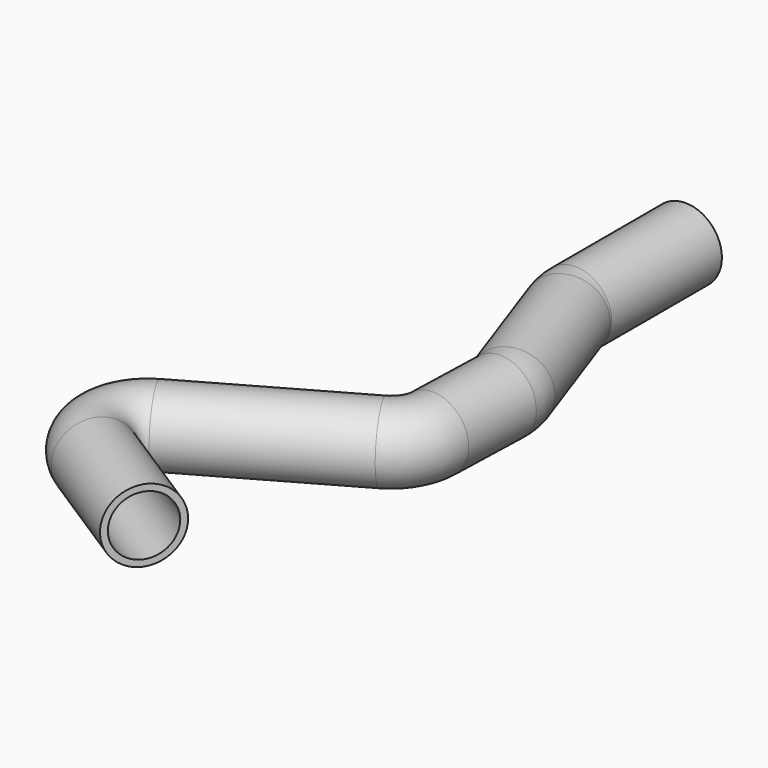
from build123d import *

# Parameters (mm, degrees)
F0_R   = 84.15
F0_R_2 = 69.15


with BuildPart() as f2:
    # F2: sweep along a path in F1
    with BuildLine(Plane.XY) as f2_path:
        Line((0, 0), (0, -319.051440309))
        ThreePointArc((0, -319.051440309), (1.4311514739, -335.90914182), (5.6836420047, -352.2843248437))
        Line((5.6836420047, -352.2843248437), (106.6002204783, -638.6899220781))
        ThreePointArc((106.6002204783, -638.6899220781), (111.1034595724, -656.6033016898), (112.2352869611, -675.0393342948))
        Line((112.2352869611, -675.0393342948), (106.3534213208, -863.6790350566))
        ThreePointArc((106.3534213208, -863.6790350566), (92.0330955699, -912.2085617328), (55.7896099061, -947.5157343181))
        Line((55.7896099061, -947.5157343181), (-304.435778096, -1152.1162155614))
        ThreePointArc((-304.435778096, -1152.1162155614), (-355.0111521662, -1236.3489272417), (-309.0920730299, -1323.2077572513))
        Line((-309.0920730299, -1323.2077572513), (-76.9404915624, -1472.3238733526))
    # F0 (on Front) → F2 (sweep)
    with BuildSketch(Plane.XZ):
        Circle(F0_R)
        Circle(F0_R_2, mode=Mode.SUBTRACT)
    sweep(path=f2_path.line)


solid = f2.part
